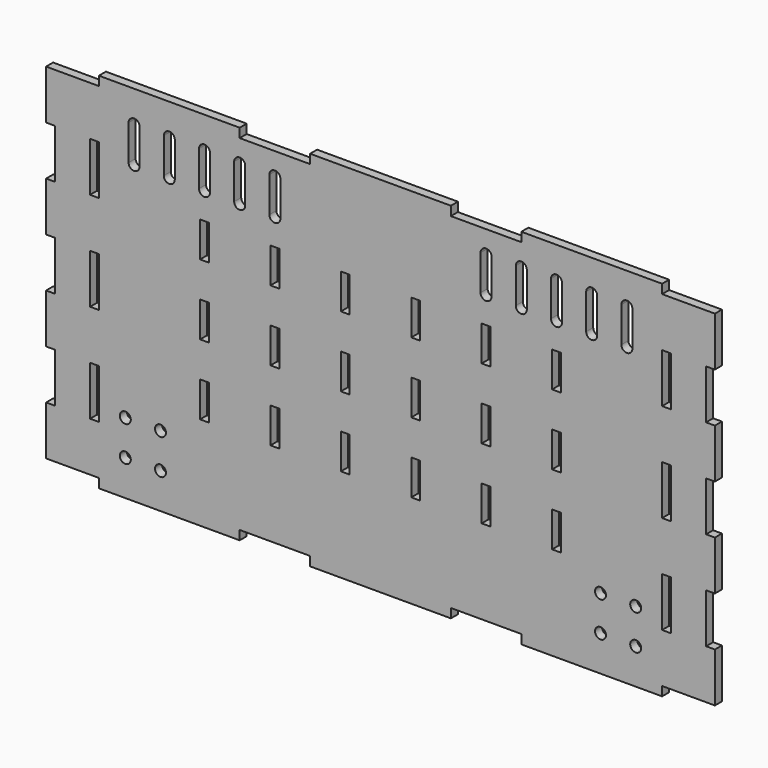
from build123d import *

# Parameters (mm, degrees)
F0_R     = 1.984375
F0_W     = 3.175
F0_H     = 17.78
F0_H_2   = 12.7
F1_DEPTH = 3.175


with BuildPart() as f1:
    # F0 (on Front) → F1 (new body)
    with BuildSketch(Plane.XZ):
        Polygon((-101.6, -65.532), (-50.8, -65.532), (-50.8, -62.23), (-25.4, -62.23), (-25.4, -65.532), (25.4, -65.532), (25.4, -62.23), (50.8, -62.23), (50.8, -65.532), (101.6, -65.532), (101.6, -62.23), (120.65, -62.23), (120.65, -44.45), (117.475, -44.45), (117.475, -26.67), (120.65, -26.67), (120.65, -8.89), (117.475, -8.89), (117.475, 8.89), (120.65, 8.89), (120.65, 26.67), (117.475, 26.67), (117.475, 44.45), (120.65, 44.45), (120.65, 62.23), (101.6, 62.23), (101.6, 65.532), (50.8, 65.532), (50.8, 62.23), (25.4, 62.23), (25.4, 65.532), (-25.4, 65.532), (-25.4, 62.23), (-50.8, 62.23), (-50.8, 65.532), (-101.6, 65.532), (-101.6, 62.23), (-120.65, 62.23), (-120.65, 44.45), (-117.475, 44.45), (-117.475, 26.67), (-120.65, 26.67), (-120.65, 8.89), (-117.475, 8.89), (-117.475, -8.89), (-120.65, -8.89), (-120.65, -26.67), (-117.475, -26.67), (-117.475, -44.45), (-120.65, -44.45), (-120.65, -62.23), (-101.6, -62.23), align=None)
        with Locations((-92.075, -52.705)):
            Circle(F0_R, mode=Mode.SUBTRACT)
        with Locations((-79.375, -52.705)):
            Circle(F0_R, mode=Mode.SUBTRACT)
        with Locations((-92.075, -40.005)):
            Circle(F0_R, mode=Mode.SUBTRACT)
        with Locations((-103.1875, -35.56)):
            Rectangle(F0_W, F0_H, mode=Mode.SUBTRACT)
        with Locations((-79.375, -40.005)):
            Circle(F0_R, mode=Mode.SUBTRACT)
        with Locations((-63.5, -25.4)):
            Rectangle(F0_W, F0_H_2, mode=Mode.SUBTRACT)
        with Locations((-38.1, -25.4)):
            Rectangle(F0_W, F0_H_2, mode=Mode.SUBTRACT)
        with Locations((-12.7, -25.4)):
            Rectangle(F0_W, F0_H_2, mode=Mode.SUBTRACT)
        with Locations((79.375, -52.705)):
            Circle(F0_R, mode=Mode.SUBTRACT)
        with Locations((92.075, -52.705)):
            Circle(F0_R, mode=Mode.SUBTRACT)
        with Locations((79.375, -40.005)):
            Circle(F0_R, mode=Mode.SUBTRACT)
        with Locations((92.075, -40.005)):
            Circle(F0_R, mode=Mode.SUBTRACT)
        with Locations((103.1875, -35.56)):
            Rectangle(F0_W, F0_H, mode=Mode.SUBTRACT)
        with Locations((12.7, -25.4)):
            Rectangle(F0_W, F0_H_2, mode=Mode.SUBTRACT)
        with Locations((38.1, -25.4)):
            Rectangle(F0_W, F0_H_2, mode=Mode.SUBTRACT)
        with Locations((63.5, -25.4)):
            Rectangle(F0_W, F0_H_2, mode=Mode.SUBTRACT)
        with Locations((-103.1875, 0)):
            Rectangle(F0_W, F0_H, mode=Mode.SUBTRACT)
        with Locations((-63.5, 0)):
            Rectangle(F0_W, F0_H_2, mode=Mode.SUBTRACT)
        with Locations((-63.5, 25.4)):
            Rectangle(F0_W, F0_H_2, mode=Mode.SUBTRACT)
        with Locations((-38.1, 0)):
            Rectangle(F0_W, F0_H_2, mode=Mode.SUBTRACT)
        with Locations((-12.7, 0)):
            Rectangle(F0_W, F0_H_2, mode=Mode.SUBTRACT)
        with Locations((-38.1, 25.4)):
            Rectangle(F0_W, F0_H_2, mode=Mode.SUBTRACT)
        with Locations((-12.7, 25.4)):
            Rectangle(F0_W, F0_H_2, mode=Mode.SUBTRACT)
        with Locations((-103.1875, 35.56)):
            Rectangle(F0_W, F0_H, mode=Mode.SUBTRACT)
        with BuildLine():
            ThreePointArc((-90.884375, 54.102), (-88.9, 56.086375), (-86.915625, 54.102))
            Line((-86.915625, 54.102), (-86.915625, 41.402))
            ThreePointArc((-86.915625, 41.402), (-88.9, 39.417625), (-90.884375, 41.402))
            Line((-90.884375, 41.402), (-90.884375, 54.102))
        make_face(mode=Mode.SUBTRACT)
        with BuildLine():
            ThreePointArc((-78.184375, 54.102), (-76.2, 56.086375), (-74.215625, 54.102))
            Line((-74.215625, 54.102), (-74.215625, 41.402))
            ThreePointArc((-74.215625, 41.402), (-76.2, 39.417625), (-78.184375, 41.402))
            Line((-78.184375, 41.402), (-78.184375, 54.102))
        make_face(mode=Mode.SUBTRACT)
        with BuildLine():
            ThreePointArc((-65.484375, 54.102), (-63.5, 56.086375), (-61.515625, 54.102))
            Line((-61.515625, 54.102), (-61.515625, 41.402))
            ThreePointArc((-61.515625, 41.402), (-63.5, 39.417625), (-65.484375, 41.402))
            Line((-65.484375, 41.402), (-65.484375, 54.102))
        make_face(mode=Mode.SUBTRACT)
        with BuildLine():
            ThreePointArc((-52.784375, 54.102), (-50.8, 56.086375), (-48.815625, 54.102))
            Line((-48.815625, 54.102), (-48.815625, 41.402))
            ThreePointArc((-48.815625, 41.402), (-50.8, 39.417625), (-52.784375, 41.402))
            Line((-52.784375, 41.402), (-52.784375, 54.102))
        make_face(mode=Mode.SUBTRACT)
        with BuildLine():
            ThreePointArc((-40.084375, 54.102), (-38.1, 56.086375), (-36.115625, 54.102))
            Line((-36.115625, 54.102), (-36.115625, 41.402))
            ThreePointArc((-36.115625, 41.402), (-38.1, 39.417625), (-40.084375, 41.402))
            Line((-40.084375, 41.402), (-40.084375, 54.102))
        make_face(mode=Mode.SUBTRACT)
        with Locations((12.7, 0)):
            Rectangle(F0_W, F0_H_2, mode=Mode.SUBTRACT)
        with Locations((38.1, 0)):
            Rectangle(F0_W, F0_H_2, mode=Mode.SUBTRACT)
        with Locations((12.7, 25.4)):
            Rectangle(F0_W, F0_H_2, mode=Mode.SUBTRACT)
        with Locations((38.1, 25.4)):
            Rectangle(F0_W, F0_H_2, mode=Mode.SUBTRACT)
        with Locations((63.5, 0)):
            Rectangle(F0_W, F0_H_2, mode=Mode.SUBTRACT)
        with Locations((103.1875, 0)):
            Rectangle(F0_W, F0_H, mode=Mode.SUBTRACT)
        with Locations((63.5, 25.4)):
            Rectangle(F0_W, F0_H_2, mode=Mode.SUBTRACT)
        with BuildLine():
            Line((36.115625, 41.402), (36.115625, 54.102))
            ThreePointArc((36.115625, 54.102), (38.1, 56.086375), (40.084375, 54.102))
            Line((40.084375, 54.102), (40.084375, 41.402))
            ThreePointArc((40.084375, 41.402), (38.1, 39.417625), (36.115625, 41.402))
        make_face(mode=Mode.SUBTRACT)
        with BuildLine():
            Line((52.784375, 54.102), (52.784375, 41.402))
            ThreePointArc((52.784375, 41.402), (50.8, 39.417625), (48.815625, 41.402))
            Line((48.815625, 41.402), (48.815625, 54.102))
            ThreePointArc((48.815625, 54.102), (50.8, 56.086375), (52.784375, 54.102))
        make_face(mode=Mode.SUBTRACT)
        with BuildLine():
            Line((61.515625, 41.402), (61.515625, 54.102))
            ThreePointArc((61.515625, 54.102), (63.5, 56.086375), (65.484375, 54.102))
            Line((65.484375, 54.102), (65.484375, 41.402))
            ThreePointArc((65.484375, 41.402), (63.5, 39.417625), (61.515625, 41.402))
        make_face(mode=Mode.SUBTRACT)
        with BuildLine():
            Line((74.215625, 41.402), (74.215625, 54.102))
            ThreePointArc((74.215625, 54.102), (76.2, 56.086375), (78.184375, 54.102))
            Line((78.184375, 54.102), (78.184375, 41.402))
            ThreePointArc((78.184375, 41.402), (76.2, 39.417625), (74.215625, 41.402))
        make_face(mode=Mode.SUBTRACT)
        with BuildLine():
            Line((86.915625, 41.402), (86.915625, 54.102))
            ThreePointArc((86.915625, 54.102), (88.9, 56.086375), (90.884375, 54.102))
            Line((90.884375, 54.102), (90.884375, 41.402))
            ThreePointArc((90.884375, 41.402), (88.9, 39.417625), (86.915625, 41.402))
        make_face(mode=Mode.SUBTRACT)
        with Locations((103.1875, 35.56)):
            Rectangle(F0_W, F0_H, mode=Mode.SUBTRACT)
    extrude(amount=F1_DEPTH)


solid = f1.part
